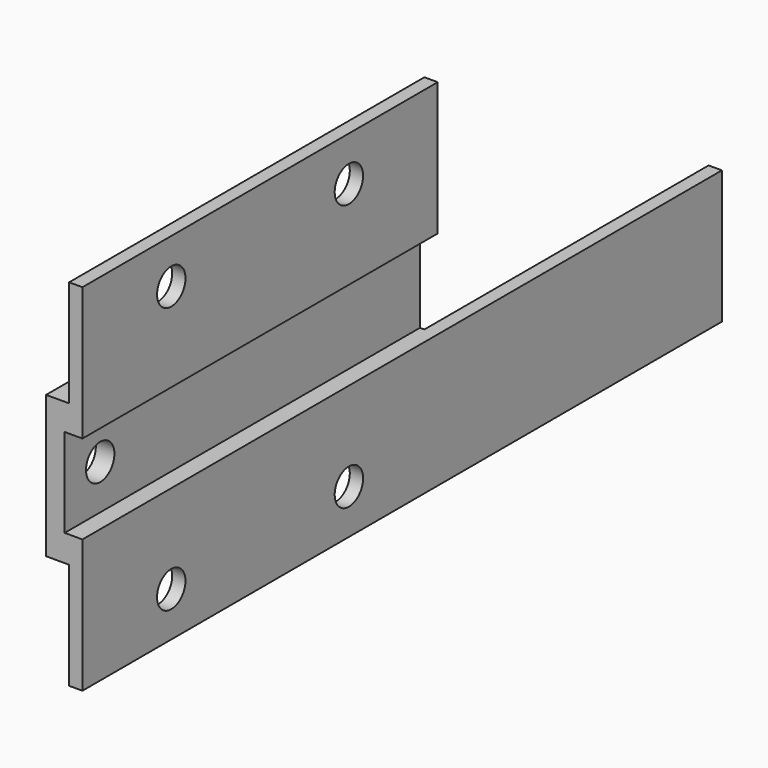
from build123d import *

# Parameters (mm, degrees)
F1_DEPTH = 180
F2_R     = 4
F3_DEPTH = 25
F4_W     = 80
F4_H     = 50
F5_DEPTH = 12.5
F6_W     = 5.1898740767
F6_H     = 6
F7_DEPTH = 80


with BuildPart() as f1:
    # F0 (on Front) → F1 (new body)
    with BuildSketch(Plane.XZ):
        Polygon((3, 40), (0, 40), (0, 16), (-5.1898740767, 16), (-5.1898740767, 0), (-1, 0), (-1, 10), (3, 10), align=None)
        Polygon((-1, 0), (-5.1898740767, 0), (-5.1898740767, -16), (0, -16), (0, -40), (3, -40), (3, -10), (-1, -10), align=None)
    extrude(amount=F1_DEPTH)

    # F2 (on face) → F3 (cut)
    with BuildSketch(Plane(origin=(-5.1898740767, 0, 0), x_dir=(0, -1, 0), z_dir=(-1, 0, 0))):
        with Locations((170, 0)):
            Circle(F2_R)
        with Locations((155, 30)):
            Circle(F2_R)
        with Locations((105, 30)):
            Circle(F2_R)
        with Locations((155, -30)):
            Circle(F2_R)
        with Locations((105, -30)):
            Circle(F2_R)
    extrude(amount=-F3_DEPTH, mode=Mode.SUBTRACT)

    # F4 (on face) → F5 (cut, symmetric)
    with BuildSketch(Plane.YZ.offset(-1)):
        with Locations((-40, 15)):
            Rectangle(F4_W, F4_H)
    extrude(amount=F5_DEPTH, both=True, mode=Mode.SUBTRACT)

    # F6 (on face) → F7 (cut)
    with BuildSketch(Plane(origin=(0, 0, 0), x_dir=(-1, 0, 0), z_dir=(0, 1, 0))):
        with Locations((2.5949370383, -13)):
            Rectangle(F6_W, F6_H)
    extrude(amount=-F7_DEPTH, mode=Mode.SUBTRACT)


solid = f1.part
